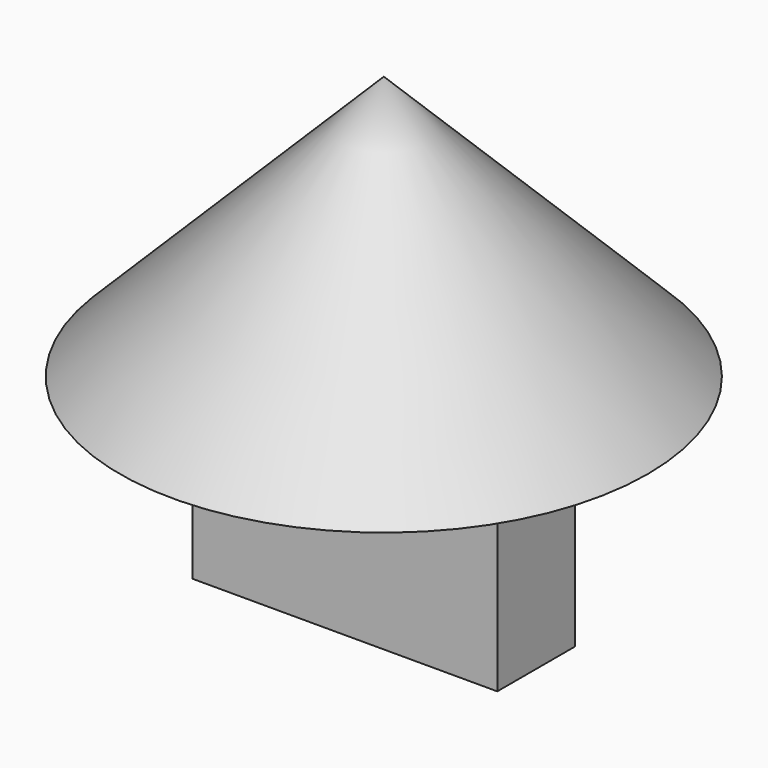
from build123d import *

# Parameters (mm, degrees)
F3_W     = 14.659638
F3_H     = 4.675124
F4_DEPTH = 10


with BuildPart() as f2:
    # F0 (on Front) → F2 (revolve)
    with BuildSketch(Plane.XZ):
        Polygon((0, 12.7), (0, 0), (12.7, 0), align=None)
    revolve(axis=Axis((0, 0, 19.931149), (0, 0, 1)))

    # F3 (on Top) → F4 (join)
    with BuildSketch(Plane.XY):
        Rectangle(F3_W, F3_H)
    extrude(amount=-F4_DEPTH)


solid = f2.part
